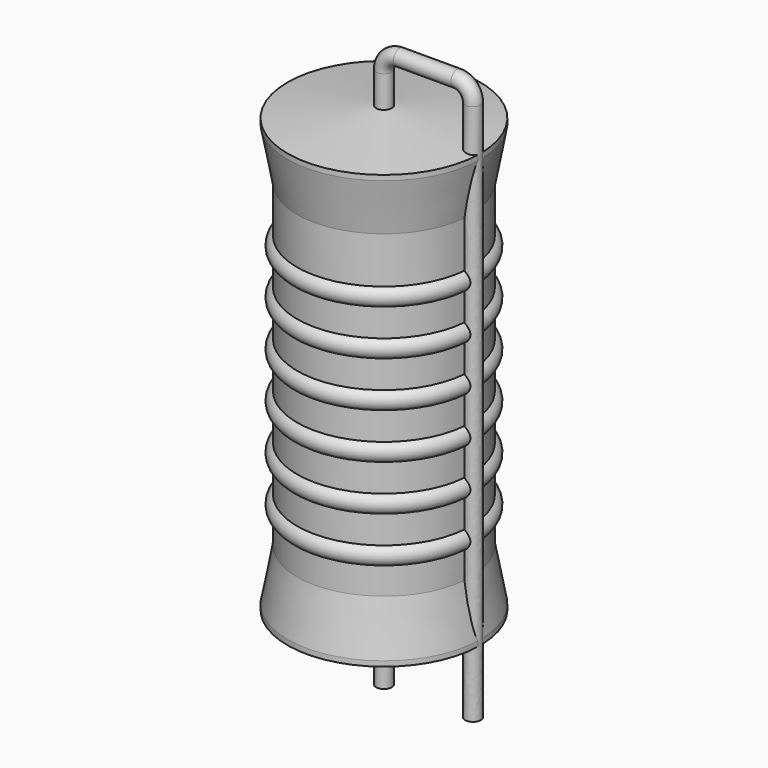
from build123d import *

# Parameters (mm, degrees)
SKETCH_R = 0.45


with BuildPart() as revolution:
    # Sketch002 → Revolution (revolve)
    with BuildSketch(Plane.XZ):
        Polygon((0, 0.1), (0, 26.1), (0.3375, 26.1), (5.5, 25.45), (5.5, 25.1575), (4.95, 22.2), (4.95, 4), (5.5, 1.0425), (5.5, 0.75), (0.3375, 0.1), align=None)
    revolve(axis=Axis((0, 0, 0), (0, 0, 1)))


with BuildPart() as revolution001:
    # Sketch003 → Revolution001 (revolve)
    with BuildSketch(Plane.XZ):
        with BuildLine():
            Line((4.4, 21.1), (4.4, 4))
            Line((4.4, 4), (4.73, 4))
            Line((4.73, 4), (4.73, 5.5))
            ThreePointArc((4.73, 5.5), (5.28, 6.05), (4.73, 6.6))
            Line((4.73, 6.6), (4.73, 8.1))
            ThreePointArc((4.73, 8.1), (5.28, 8.65), (4.73, 9.2))
            Line((4.73, 9.2), (4.73, 10.7))
            ThreePointArc((4.73, 10.7), (5.28, 11.25), (4.73, 11.8))
            Line((4.73, 11.8), (4.73, 13.3))
            ThreePointArc((4.73, 13.3), (5.28, 13.85), (4.73, 14.4))
            Line((4.73, 14.4), (4.73, 15.9))
            ThreePointArc((4.73, 15.9), (5.28, 16.45), (4.73, 17))
            Line((4.73, 17), (4.73, 18.5))
            ThreePointArc((4.73, 18.5), (5.28, 19.05), (4.73, 19.6))
            Line((4.73, 21.1), (4.73, 19.6))
            Line((4.4, 21.1), (4.73, 21.1))
        make_face()
    revolve(axis=Axis((0, 0, 0), (0, 0, 1)))


with BuildPart() as obj1:
    # Sweep: sweep along a path in Sketch001
    with BuildLine(Plane.XZ) as sweep_path:
        Line((0, -3), (0, 27.9))
        ThreePointArc((0, 27.9), (0.263599, 28.536391), (0.899987, 28.8))
        Line((0.899987, 28.8), (4.18, 28.8))
        ThreePointArc((4.18, 28.8), (4.816396, 28.536396), (5.08, 27.9))
        Line((5.08, 27.9), (5.08, -3))
    # Sketch → Sweep (sweep)
    with BuildSketch(Plane.XY.offset(-2)):
        Circle(SKETCH_R)
    sweep(path=sweep_path.line)

    # obj1: union Revolution, Revolution001
    add(revolution.part)
    add(revolution001.part)


solid = obj1.part
